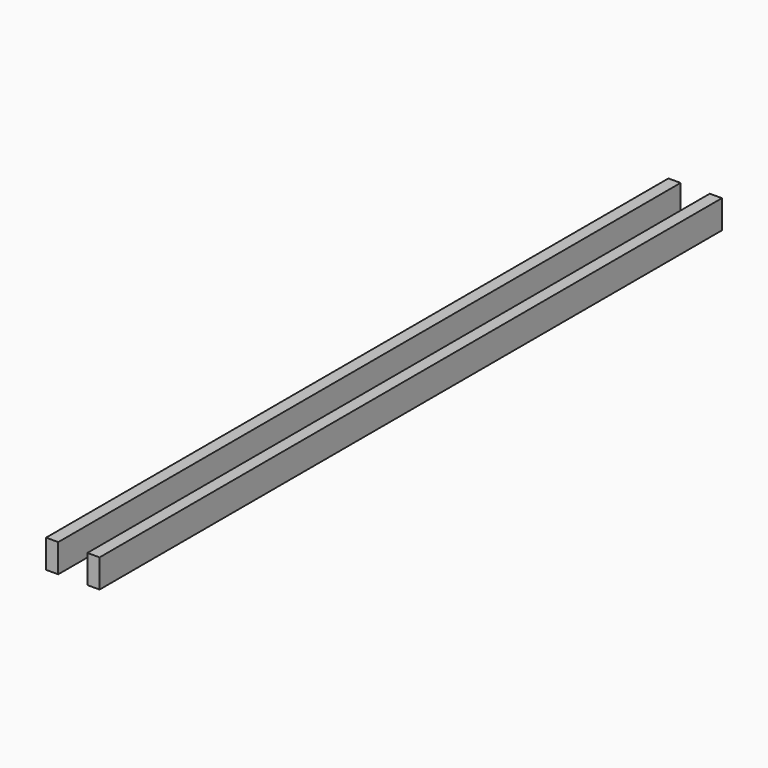
from build123d import *

# Parameters (mm, degrees)
F0_W     = 38.1
F0_H     = 88.9
F1_DEPTH = 2438.4


with BuildPart() as f1:
    # F0 (on Front) → F1 (new body)
    with BuildSketch(Plane.XZ):
        with Locations((-71.664674, 48.850294)):
            Rectangle(F0_W, F0_H)
    extrude(amount=F1_DEPTH)


with BuildPart() as f2_1:
    # F2: copy of F1
    add(f1.part.moved(Location((129.54, 0, 0))))


solid = Compound([f1.part, f2_1.part])
